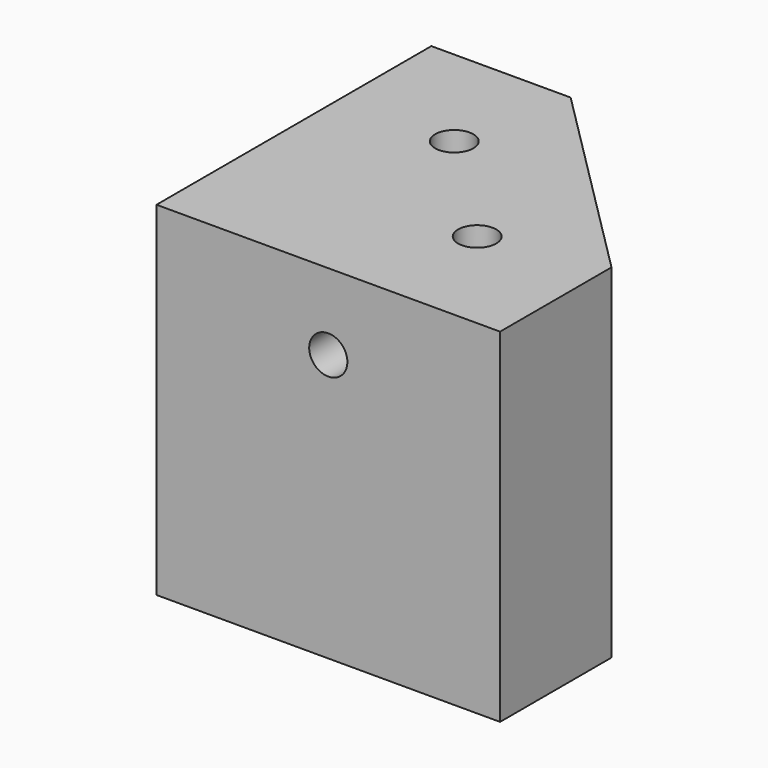
from build123d import *

# Parameters (mm, degrees)
CYLINDER003_R          = 1
CYLINDER003_DEPTH      = 50
CYLINDER004_R          = 1
CYLINDER004_DEPTH      = 50
BOX002_W               = 18
BOX002_H               = 50
BOX002_DEPTH           = 18
BOX002_PLACEMENT_ANGLE = 45
CYLINDER002_R          = 1
CYLINDER002_DEPTH      = 50
ARRAY001_Y_COUNT       = 2
ARRAY001_Y_PITCH       = 8.485281
BOX001_W               = 18
BOX001_H               = 18
BOX001_DEPTH           = 18


with BuildPart() as cylinder003:
    # Cylinder003 → Cylinder003 (new body)
    with BuildSketch(Plane(origin=(-17, 9, 14), x_dir=(0, 0, -1), z_dir=(1, 0, 0))):
        Circle(CYLINDER003_R)
    extrude(amount=CYLINDER003_DEPTH)


with BuildPart() as cylinder004:
    # Cylinder004 → Cylinder004 (new body)
    with BuildSketch(Plane(origin=(9, 27, 14), x_dir=(1, 0, 0), z_dir=(0, -1, 0))):
        Circle(CYLINDER004_R)
    extrude(amount=CYLINDER004_DEPTH)


with BuildPart() as cube002:
    # Box002 → Box002 (new body)
    with BuildSketch(Plane.XY):
        with Locations((9, 25)):
            Rectangle(BOX002_W, BOX002_H)
    extrude(amount=BOX002_DEPTH)


with BuildPart() as cube002_1:
    # Box002 placement: moved
    add(cube002.part.moved(Location((28.8715, -3.57359, 0))).rotate(Axis((28.8715, -3.57359, 0), (0, 0, 1)), BOX002_PLACEMENT_ANGLE))


with BuildPart() as fusion001:
    # Cylinder002 → Cylinder002 (new body)
    with BuildSketch(Plane(origin=(6, 12, -10), x_dir=(1, 0, 0), z_dir=(0, 0, 1))):
        Circle(CYLINDER002_R)
    extrude(amount=CYLINDER002_DEPTH)

    # Array001 Y: Fusion001 ×2


with BuildPart() as fusion001_1:
    add(fusion001.part)
    with Locations(*[Vector(0.707107, -0.707107, 0) * (i * ARRAY001_Y_PITCH) for i in range(1, ARRAY001_Y_COUNT)]):
        add(fusion001.part)

    # Fusion001: union Cylinder003, Cylinder004, Cube002
    add(cylinder003.part)
    add(cylinder004.part)
    add(cube002_1.part)


with BuildPart() as cut001:
    # Box001 → Box001 (new body)
    with BuildSketch(Plane.XY):
        with Locations((9, 9)):
            Rectangle(BOX001_W, BOX001_H)
    extrude(amount=BOX001_DEPTH)

    # Cut001: cut Fusion001
    add(fusion001_1.part, mode=Mode.SUBTRACT)


solid = cut001.part
